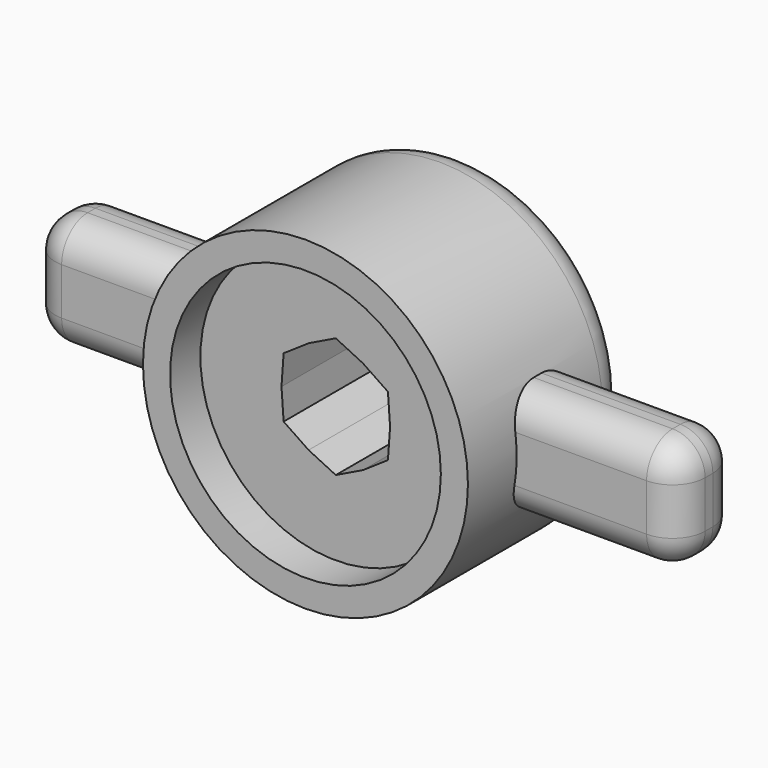
from build123d import *

# Parameters (mm, degrees)
F0_R      = 15
F1_DEPTH  = 18.5
F2_T      = -2.5
F3_R      = 12.5
F4_DEPTH  = 12.5
F6_DEPTH  = 10
F8_W      = 6.8951621652
F8_H      = 10.3427423164
F9_DEPTH  = 3
F10_W     = 6.8951621652
F10_H     = 10.3427423164
F11_DEPTH = 18
F12_R     = 3


with BuildPart() as f1:
    # F0 (on Front) → F1 (new body)
    with BuildSketch(Plane.XZ):
        Circle(F0_R)
    extrude(amount=F1_DEPTH)

    # F2
    f2_openings = [f1.faces().sort_by_distance(p)[0] for p in [
        (0, -18.5, 0),
    ]]
    offset(amount=F2_T, openings=f2_openings)

    # F3 (on face) → F4 (join)
    with BuildSketch(Plane.XZ.offset(2.5)):
        Circle(F3_R)
    extrude(amount=F4_DEPTH)

    # F5 (on face) → F6 (cut)
    with BuildSketch(Plane.XZ.offset(15)):
        Polygon((4.7811761408, 3.2363077795), (-0.4121366812, 5.7587738877), (-5.193312822, 2.5224661081), (-4.7811761408, -3.2363077795), (0.4121366812, -5.7587738877), (5.193312822, -2.5224661081), align=None)
    extrude(amount=-F6_DEPTH, mode=Mode.SUBTRACT)

    # F8 (on offset) → F9 (cut)
    with BuildSketch(Plane.YZ.offset(15)):
        with Locations((-9.4354841858, -0.2721771598)):
            Rectangle(F8_W, F8_H)
    extrude(amount=-F9_DEPTH, mode=Mode.SUBTRACT)

    # F10 (on face) → F11 (join)
    with BuildSketch(Plane.YZ.offset(12)):
        with Locations((-9.4354841858, -0.2721771598)):
            Rectangle(F10_W, F10_H)
    extrude(amount=F11_DEPTH)

    # F12
    f12_edges = [f1.edges().sort_by_distance(p)[0] for p in [
        (30, -9.435484, 4.899194),
        (30, -9.435484, -5.443548),
        (30, -5.987903, -0.272177),
        (30, -12.883065, -0.272177),
        (22.088686, -12.883065, 4.899194),
        (21.988701, -12.883065, -5.443548),
        (22.088686, -5.987903, 4.899194),
        (21.988701, -5.987903, -5.443548),
        (-15, 0, 0),
    ]]
    fillet(f12_edges, radius=F12_R)

    # F13: F1 across plane


with BuildPart() as f1_1:
    add(f1.part)
    add(f1.part.mirror(Plane.YZ))


solid = f1_1.part
